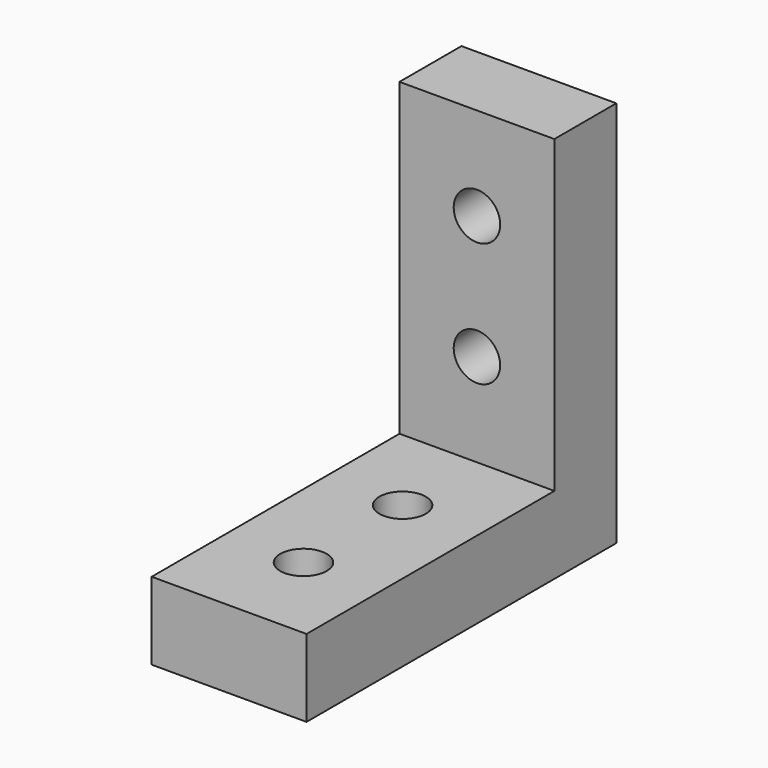
from build123d import *

# Parameters (mm, degrees)
SKETCH_W     = 10
SKETCH_H     = 25
SKETCH_R     = 1.5
PAD_DEPTH    = 5
SKETCH001_W  = 10
SKETCH001_H  = 5
PAD001_DEPTH = 20
SKETCH002_R  = 1.5
POCKET_DEPTH = 25.001


with BuildPart() as part:
    # Sketch → Pad (new body)
    with BuildSketch(Plane.XY):
        with Locations((5, 12.5)):
            Rectangle(SKETCH_W, SKETCH_H)
        with Locations((5, 14)):
            Circle(SKETCH_R, mode=Mode.SUBTRACT)
        with Locations((5, 6)):
            Circle(SKETCH_R, mode=Mode.SUBTRACT)
    extrude(amount=PAD_DEPTH)

    # Sketch001 → Pad001 (new body)
    with BuildSketch(Plane.XY.offset(5)):
        with Locations((5, 22.5)):
            Rectangle(SKETCH001_W, SKETCH001_H)
    extrude(amount=PAD001_DEPTH)

    # Sketch002 → Pocket (cut, through all)
    with BuildSketch(Plane(origin=(0, 25, 0), x_dir=(-1, 0, 0), z_dir=(0, 1, 0))):
        with Locations((-5, 19)):
            Circle(SKETCH002_R)
        with Locations((-5, 11)):
            Circle(SKETCH002_R)
    extrude(amount=-POCKET_DEPTH, mode=Mode.SUBTRACT)


solid = part.part
